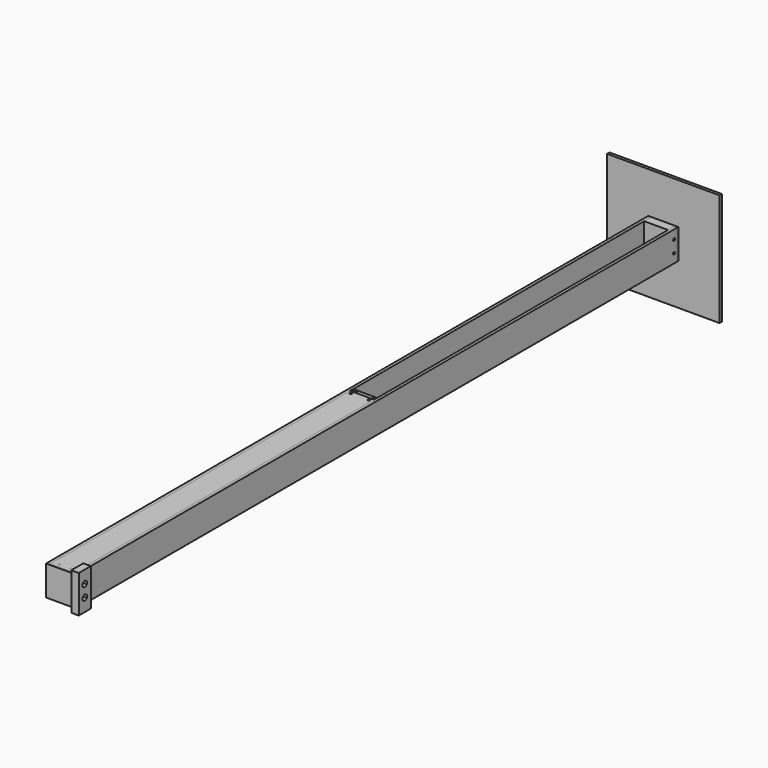
from build123d import *

# Parameters (mm, degrees)
PAD_DEPTH               = 1000
SKETCH032_R             = 1.6
POCKET002_DEPTH         = 40.001
SKETCH002_W             = 40
SKETCH002_H             = 40
PAD002_DEPTH            = 2
SKETCH007_W             = 32
SKETCH007_H             = 36
PAD006_DEPTH            = 10
SKETCH008_R             = 2
POCKET_DEPTH            = 8
SKETCH039_R             = 2
POCKET005_DEPTH         = 8
SKETCH044_R             = 2
POCKET011_DEPTH         = 8
SKETCH003_W             = 40
SKETCH003_H             = 40
PAD003_DEPTH            = 2
SKETCH006_W             = 32
SKETCH006_H             = 36
PAD019_DEPTH            = 10
SKETCH031_R             = 2
POCKET009_DEPTH         = 8
SKETCH040_R             = 2
POCKET010_DEPTH         = 8
SKETCH029_W             = 150
SKETCH029_H             = 150
SKETCH029_R             = 1.6
PAD018_DEPTH            = 4
SKETCH033_W             = 10
SKETCH033_H             = 950
PAD020_DEPTH            = 0.1
SKETCH037_W             = 20
SKETCH037_H             = 50
PAD022_DEPTH            = 6
PAD023_DEPTH            = 4
SKETCH001_W             = 32
SKETCH001_H             = 500
SKETCH001_R             = 1.6
PAD001_DEPTH            = 2
BODY016_PLACEMENT_ANGLE = 180
PAD024_DEPTH            = 8
SKETCH042_R             = 2
POCKET007_DEPTH         = 8
SKETCH043_R             = 2
POCKET008_DEPTH         = 8


with BuildPart() as aluminium:
    # Sketch → Pad (new body)
    with BuildSketch(Plane.XZ):
        Polygon((-20, 40), (-20, 0), (20, 0), (20, 40), (16, 40), (16, 4), (-16, 4), (-16, 40), align=None)
    extrude(amount=PAD_DEPTH)

    # Sketch032 (on Face2 of Pad) → Pocket002 (cut, through all)
    with BuildSketch(Plane(origin=(-20, 0, 0), x_dir=(0, 0, -1), z_dir=(-1, 0, 0))):
        with Locations((-28, 995)):
            Circle(SKETCH032_R)
        with Locations((-12, 995)):
            Circle(SKETCH032_R)
        with Locations((-28, 5)):
            Circle(SKETCH032_R)
        with Locations((-12, 5)):
            Circle(SKETCH032_R)
    extrude(amount=-POCKET002_DEPTH, mode=Mode.SUBTRACT)


with BuildPart() as bottom:
    # Sketch002 → Pad002 (new body)
    with BuildSketch(Plane.XZ):
        with Locations((0, 20)):
            Rectangle(SKETCH002_W, SKETCH002_H)
    extrude(amount=-PAD002_DEPTH)

    # Sketch007 (on Face5 of Pad002) → Pad006 (join)
    with BuildSketch(Plane.XZ):
        with Locations((0, 22)):
            Rectangle(SKETCH007_W, SKETCH007_H)
    extrude(amount=PAD006_DEPTH)

    # Sketch008 (on Face10 of Pad006) → Pocket (cut)
    with BuildSketch(Plane(origin=(-16, 0, 0), x_dir=(0, 0, -1), z_dir=(-1, 0, 0))):
        with Locations((-28, 5)):
            Circle(SKETCH008_R)
        with Locations((-12, 5)):
            Circle(SKETCH008_R)
    extrude(amount=-POCKET_DEPTH, mode=Mode.SUBTRACT)

    # Sketch039 → Pocket005 (cut)
    with BuildSketch(Plane(origin=(16, 0, 0), x_dir=(0, 0, 1), z_dir=(1, 0, 0))):
        with Locations((12, 5)):
            Circle(SKETCH039_R)
        with Locations((28, 5)):
            Circle(SKETCH039_R)
    extrude(amount=-POCKET005_DEPTH, mode=Mode.SUBTRACT)

    # Sketch044 (on Face6 of Pocket005) → Pocket011 (cut)
    with BuildSketch(Plane(origin=(0, 2, 0), x_dir=(1, 0, 0), z_dir=(0, 1, 0))):
        with Locations((-12.5, -7.5)):
            Circle(SKETCH044_R)
        with Locations((12.5, -7.5)):
            Circle(SKETCH044_R)
        with Locations((12.5, -32.5)):
            Circle(SKETCH044_R)
        with Locations((-12.5, -32.5)):
            Circle(SKETCH044_R)
    extrude(amount=-POCKET011_DEPTH, mode=Mode.SUBTRACT)


with BuildPart() as top:
    # Sketch003 → Pad003 (new body)
    with BuildSketch(Plane.XZ):
        with Locations((0, 20)):
            Rectangle(SKETCH003_W, SKETCH003_H)
    extrude(amount=PAD003_DEPTH)

    # Sketch006 (on Face5 of Pad003) → Pad019 (join)
    with BuildSketch(Plane(origin=(0, 0, 0), x_dir=(1, 0, 0), z_dir=(0, 1, 0))):
        with Locations((0, -22)):
            Rectangle(SKETCH006_W, SKETCH006_H)
    extrude(amount=PAD019_DEPTH)

    # Sketch031 (on Face10 of Pad019) → Pocket009 (cut)
    with BuildSketch(Plane(origin=(-16, 0, 0), x_dir=(0, 0, -1), z_dir=(-1, 0, 0))):
        with Locations((-28, -5)):
            Circle(SKETCH031_R)
        with Locations((-12, -5)):
            Circle(SKETCH031_R)
    extrude(amount=-POCKET009_DEPTH, mode=Mode.SUBTRACT)

    # Sketch040 (on Face8 of Pocket009) → Pocket010 (cut)
    with BuildSketch(Plane(origin=(16, 0, 0), x_dir=(0, 0, 1), z_dir=(1, 0, 0))):
        with Locations((12, -5)):
            Circle(SKETCH040_R)
        with Locations((28, -5)):
            Circle(SKETCH040_R)
    extrude(amount=-POCKET010_DEPTH, mode=Mode.SUBTRACT)


with BuildPart() as top_1:
    # Body003 placement: moved
    add(top.part.moved(Location((0, -1000, 0))))


with BuildPart() as acrylic_bottom:
    # Sketch029 → Pad018 (new body)
    with BuildSketch(Plane.XZ):
        with Locations((0, 20)):
            Rectangle(SKETCH029_W, SKETCH029_H)
        with Locations((-12.5, 7.5)):
            Circle(SKETCH029_R, mode=Mode.SUBTRACT)
        with Locations((-12.5, 32.5)):
            Circle(SKETCH029_R, mode=Mode.SUBTRACT)
        with Locations((12.5, 32.5)):
            Circle(SKETCH029_R, mode=Mode.SUBTRACT)
        with Locations((12.5, 7.5)):
            Circle(SKETCH029_R, mode=Mode.SUBTRACT)
    extrude(amount=-PAD018_DEPTH)


with BuildPart() as acrylic_bottom_1:
    # Body012 placement: moved
    add(acrylic_bottom.part.moved(Location((0, 2, 0))))


with BuildPart() as reflective_tape:
    # Sketch033 → Pad020 (new body)
    with BuildSketch(Plane.XY):
        with Locations((0, -500)):
            Rectangle(SKETCH033_W, SKETCH033_H)
    extrude(amount=PAD020_DEPTH)


with BuildPart() as reflective_tape_1:
    # Body013 placement: moved
    add(reflective_tape.part.moved(Location((0, 0, 4))))


with BuildPart() as mal:
    # Sketch037 → Pad022 (new body)
    with BuildSketch(Plane.YZ):
        with Locations((-995, 20)):
            Rectangle(SKETCH037_W, SKETCH037_H)
        Polygon((-995, 32.041452), (-998.5, 30.020726), (-998.5, 25.979274), (-995, 23.958548), (-991.5, 25.979274), (-991.5, 30.020726), align=None, mode=Mode.SUBTRACT)
        Polygon((-995, 16.041452), (-998.5, 14.020726), (-998.5, 9.979274), (-995, 7.958548), (-991.5, 9.979274), (-991.5, 14.020726), align=None, mode=Mode.SUBTRACT)
    extrude(amount=PAD022_DEPTH)

    # Sketch038 (on Face17 of Pad022) → Pad023 (join)
    with BuildSketch(Plane(origin=(0, 0, 0), x_dir=(0, 1, 0), z_dir=(-1, 0, 0))):
        Polygon((-985, 5), (-1005, 5), (-1005, -45), (-985, -45), (-985, -40), (-1000, -40), (-1000, 0), (-985, 0), align=None)
    extrude(amount=PAD023_DEPTH)


with BuildPart() as mal_1:
    # Body015 placement: moved
    add(mal.part.moved(Location((20, 0, 0))))


with BuildPart() as acrylic_front_top:
    # Sketch001 → Pad001 (new body)
    with BuildSketch(Plane.XY):
        with Locations((0, -250)):
            Rectangle(SKETCH001_W, SKETCH001_H)
        with Locations((-8, -5)):
            Circle(SKETCH001_R, mode=Mode.SUBTRACT)
        with Locations((8, -5)):
            Circle(SKETCH001_R, mode=Mode.SUBTRACT)
        with Locations((-12, -496)):
            Circle(SKETCH001_R, mode=Mode.SUBTRACT)
        with Locations((12, -496)):
            Circle(SKETCH001_R, mode=Mode.SUBTRACT)
    extrude(amount=PAD001_DEPTH)


with BuildPart() as acrylic_front_top_1:
    # Body001 placement: moved
    add(acrylic_front_top.part.moved(Location((0, 0, 38))))


with BuildPart() as acrylic_front_top_2:
    # Body016 placement: moved
    add(acrylic_front_top_1.part.moved(Location((0, -1000, 0))).rotate(Axis((0, -1000, 0), (0, 0, 1)), BODY016_PLACEMENT_ANGLE))


with BuildPart() as joint:
    # Sketch041 → Pad024 (new body, symmetric)
    with BuildSketch(Plane.XZ):
        Polygon((-16, 38), (16, 38), (16, 26), (12, 20.5), (12, 14.5), (16, 9), (16, 4), (-16, 4), (-16, 9), (-12, 14.5), (-12, 20.5), (-16, 26), align=None)
    extrude(amount=PAD024_DEPTH, both=True)

    # Sketch042 (on Face1 of Pad024) → Pocket007 (cut)
    with BuildSketch(Plane(origin=(0, 0, 38), x_dir=(-1, 0, 0), z_dir=(0, 0, 1))):
        with Locations((-12, 4)):
            Circle(SKETCH042_R)
        with Locations((-12, -4)):
            Circle(SKETCH042_R)
        with Locations((12, -4)):
            Circle(SKETCH042_R)
        with Locations((12, 4)):
            Circle(SKETCH042_R)
    extrude(amount=-POCKET007_DEPTH, mode=Mode.SUBTRACT)

    # Sketch043 (on Face2 of Pocket007) → Pocket008 (cut)
    with BuildSketch(Plane(origin=(-16, 0, 0), x_dir=(0, 0, -1), z_dir=(-1, 0, 0))):
        with Locations((-32, 0)):
            Circle(SKETCH043_R)
    pocket008 = extrude(amount=-POCKET008_DEPTH, mode=Mode.SUBTRACT)

    # Mirrored: Pocket008 across YZ
    add(pocket008.mirror(Plane.YZ), mode=Mode.SUBTRACT)


with BuildPart() as joint_1:
    # Body017 placement: moved
    add(joint.part.moved(Location((0, -500, 0))))


solid = Compound([aluminium.part, bottom.part, top_1.part, acrylic_bottom_1.part, reflective_tape_1.part, mal_1.part, acrylic_front_top_2.part, joint_1.part])
